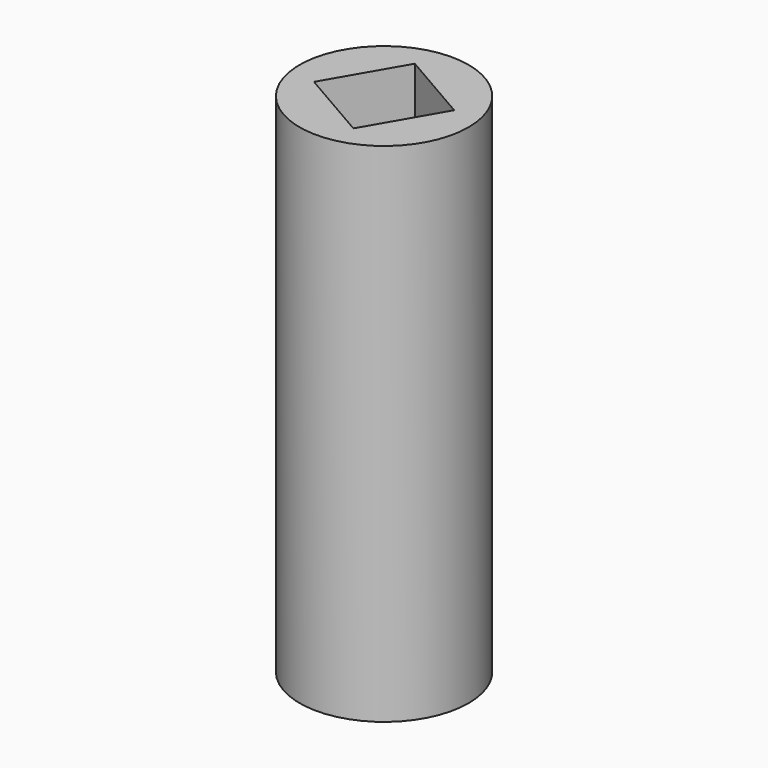
from build123d import *

# Parameters (mm, degrees)
SKETCH_R     = 10
PAD_DEPTH    = 50
SKETCH001_R  = 10
PAD001_DEPTH = 10


with BuildPart() as part:
    # Sketch → Pad (new body)
    with BuildSketch(Plane.XY):
        Circle(SKETCH_R)
        Polygon((5, -2.886751), (5, 2.886751), (0, 5.773503), (-5, 2.886751), (-5, -2.886751), (0, -5.773503), align=None, mode=Mode.SUBTRACT)
    extrude(amount=PAD_DEPTH)

    # Sketch001 → Pad001 (join)
    with BuildSketch(Plane.XY.offset(50)):
        Circle(SKETCH001_R)
        Polygon((-1.830127, 6.830127), (-6.830127, -1.830127), (1.830127, -6.830127), (6.830127, 1.830127), align=None, mode=Mode.SUBTRACT)
    extrude(amount=PAD001_DEPTH)


solid = part.part
